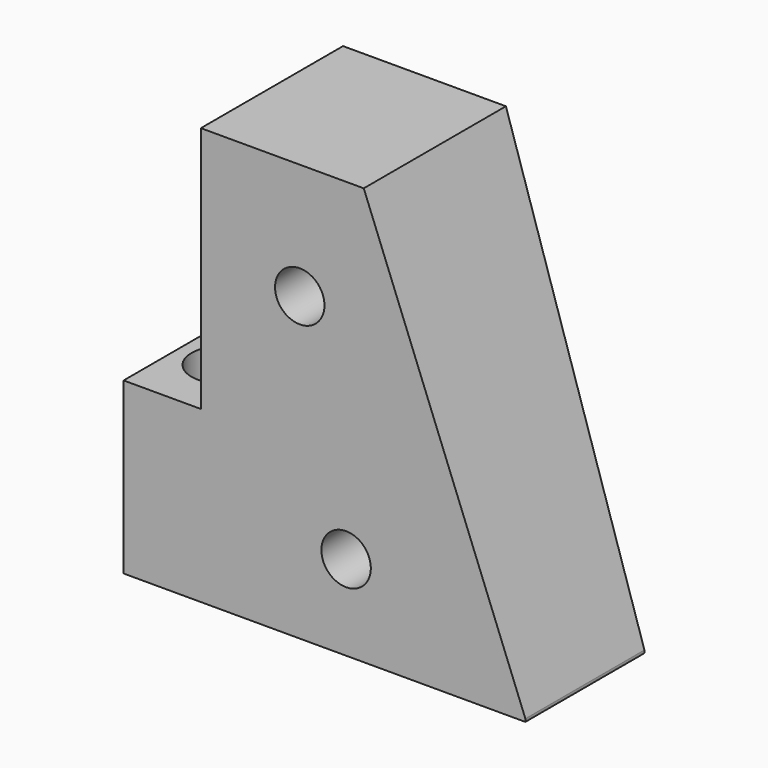
from build123d import *

# Parameters (mm, degrees)
CYLINDER127_R     = 1.6
CYLINDER127_DEPTH = 40
CYLINDER124_R     = 1.6
CYLINDER124_DEPTH = 40
CYLINDER181_R     = 2.1
CYLINDER181_DEPTH = 19
EXTRUDE067_DEPTH  = 5
EXTRUDE050_DEPTH  = 15
EXTRUDE049_DEPTH  = 21


with BuildPart() as cylinder127:
    # Cylinder127 → Cylinder127 (new body)
    with BuildSketch(Plane(origin=(5.3, 42, 40.5), x_dir=(0, 0, -1), z_dir=(0, -1, 0))):
        Circle(CYLINDER127_R)
    extrude(amount=CYLINDER127_DEPTH)


with BuildPart() as cylinder124:
    # Cylinder124 → Cylinder124 (new body)
    with BuildSketch(Plane(origin=(8.3, 42, 54.5), x_dir=(0, 0, -1), z_dir=(0, -1, 0))):
        Circle(CYLINDER124_R)
    extrude(amount=CYLINDER124_DEPTH)


with BuildPart() as cylinder181:
    # Cylinder181 → Cylinder181 (new body)
    with BuildSketch(Plane(origin=(16.8, 7.5, 32.7), x_dir=(1, 0, 0), z_dir=(0, 0, 1))):
        Circle(CYLINDER181_R)
    extrude(amount=CYLINDER181_DEPTH)


with BuildPart() as cut213:
    # Sketch055 → Extrude067 (new body)
    with BuildSketch(Plane.YZ):
        Polygon((3, 46), (10, 46), (10, 50), (13.646271, 50), (12.6, 35), (3, 35), align=None)
    extrude(amount=EXTRUDE067_DEPTH)


with BuildPart() as cut213_1:
    # Extrude067 placement: moved
    add(cut213.part.moved(Location((14.7, 0, 0))))

    # Cut213: cut Cylinder181
    add(cylinder181.part, mode=Mode.SUBTRACT)


with BuildPart() as extrude050:
    # Sketch040 → Extrude050 (new body)
    with BuildSketch(Plane.XZ):
        Polygon((-8.16038, 62.64716), (-8.16038, 30.419451), (4.410427, 62.64716), align=None)
    extrude(amount=-EXTRUDE050_DEPTH)


with BuildPart() as extrude050_1:
    # Extrude050 placement: moved
    add(extrude050.part.moved(Location((0, 1.5, 0))))


with BuildPart() as cut215:
    # Sketch039 → Extrude049 (new body)
    with BuildSketch(Plane.YZ):
        Polygon((3, 62), (3, 35), (12.616711, 35), (14.5, 62), align=None)
    extrude(amount=EXTRUDE049_DEPTH)


with BuildPart() as cut215_1:
    # Extrude049 placement: moved
    add(cut215.part.moved(Location((-6.3, 0, 0))))

    # Cut212: cut Extrude050
    add(extrude050_1.part, mode=Mode.SUBTRACT)

    # Fusion101: union Cut213
    add(cut213_1.part)

    # Cut214: cut Cylinder124
    add(cylinder124.part, mode=Mode.SUBTRACT)

    # Cut215: cut Cylinder127
    add(cylinder127.part, mode=Mode.SUBTRACT)


with BuildPart() as part_mirroring:
    # Part__Mirroring: instance of Cut215
    add(cut215_1.part.mirror(Plane(origin=(118.984314, 8.749394, 41.218285), x_dir=(0, -1, 0), z_dir=(1, 0, 0))))


solid = part_mirroring.part
